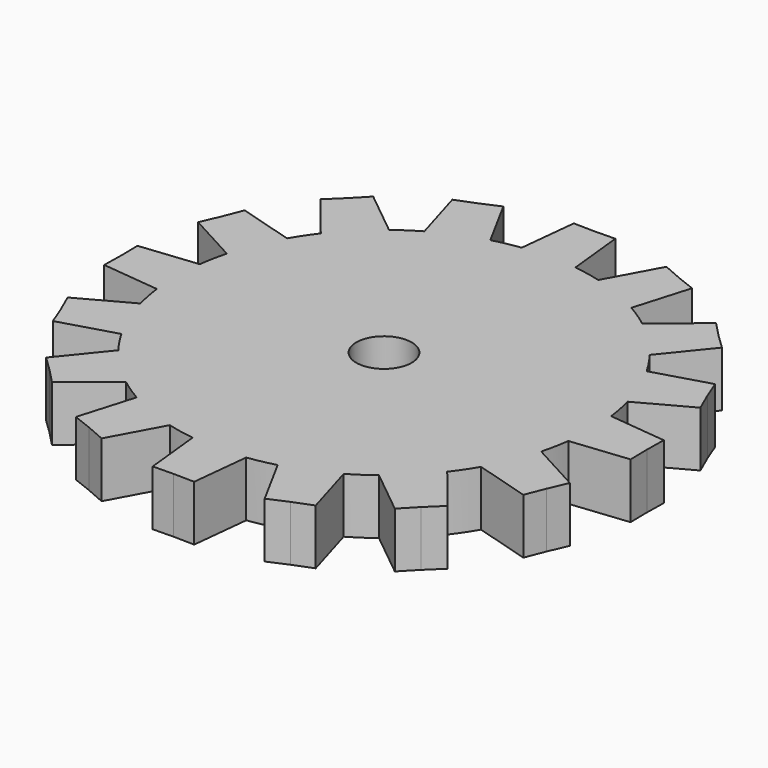
from build123d import *

# Parameters (mm, degrees)
F1_DEPTH = 2
F2_R     = 1
F3_DEPTH = 2.001


with BuildPart() as f1:
    # F0 (on Top) → F1 (new body)
    with BuildSketch(Plane.XY):
        with BuildLine():
            ThreePointArc((7.437103, -0.969279), (7.484259, -0.485659), (7.5, 0))
            ThreePointArc((7.5, 0), (7.484259, 0.485659), (7.437103, 0.969279))
            ThreePointArc((7.437103, 0.969279), (7.35589, 1.463177), (7.241914, 1.950559))
            ThreePointArc((7.241914, 1.950559), (6.929096, 2.870126), (6.50006, 3.741553))
            ThreePointArc((6.50006, 3.741553), (6.236022, 4.166777), (5.94421, 4.573442))
            ThreePointArc((5.94421, 4.573442), (5.303301, 5.303301), (4.573442, 5.94421))
            ThreePointArc((4.573442, 5.94421), (4.166777, 6.236022), (3.741553, 6.50006))
            ThreePointArc((3.741553, 6.50006), (2.870126, 6.929096), (1.950559, 7.241914))
            ThreePointArc((1.950559, 7.241914), (1.463177, 7.35589), (0.969279, 7.437103))
            ThreePointArc((0.969279, 7.437103), (0, 7.5), (-0.969279, 7.437103))
            ThreePointArc((-0.969279, 7.437103), (-1.463177, 7.35589), (-1.950559, 7.241914))
            ThreePointArc((-1.950559, 7.241914), (-2.870126, 6.929096), (-3.741553, 6.50006))
            ThreePointArc((-3.741553, 6.50006), (-4.166777, 6.236022), (-4.573442, 5.94421))
            ThreePointArc((-4.573442, 5.94421), (-5.303301, 5.303301), (-5.94421, 4.573442))
            ThreePointArc((-5.94421, 4.573442), (-6.236022, 4.166777), (-6.50006, 3.741553))
            ThreePointArc((-6.50006, 3.741553), (-6.929096, 2.870126), (-7.241914, 1.950559))
            ThreePointArc((-7.241914, 1.950559), (-7.35589, 1.463177), (-7.437103, 0.969279))
            ThreePointArc((-7.437103, 0.969279), (-7.5, 0), (-7.437103, -0.969279))
            ThreePointArc((-7.437103, -0.969279), (-7.35589, -1.463177), (-7.241914, -1.950559))
            ThreePointArc((-7.241914, -1.950559), (-6.929096, -2.870126), (-6.50006, -3.741553))
            ThreePointArc((-6.50006, -3.741553), (-6.236022, -4.166777), (-5.94421, -4.573442))
            ThreePointArc((-5.94421, -4.573442), (-5.303301, -5.303301), (-4.573442, -5.94421))
            ThreePointArc((-4.573442, -5.94421), (-4.166777, -6.236022), (-3.741553, -6.50006))
            ThreePointArc((-3.741553, -6.50006), (-2.870126, -6.929096), (-1.950559, -7.241914))
            ThreePointArc((-1.950559, -7.241914), (-1.463177, -7.35589), (-0.969279, -7.437103))
            ThreePointArc((-0.969279, -7.437103), (0, -7.5), (0.969279, -7.437103))
            ThreePointArc((0.969279, -7.437103), (1.463177, -7.35589), (1.950559, -7.241914))
            ThreePointArc((1.950559, -7.241914), (2.870126, -6.929096), (3.741553, -6.50006))
            ThreePointArc((3.741553, -6.50006), (4.166777, -6.236022), (4.573442, -5.94421))
            ThreePointArc((4.573442, -5.94421), (5.303301, -5.303301), (5.94421, -4.573442))
            ThreePointArc((5.94421, -4.573442), (6.236022, -4.166777), (6.50006, -3.741553))
            ThreePointArc((6.50006, -3.741553), (6.929096, -2.870126), (7.241914, -1.950559))
            ThreePointArc((7.241914, -1.950559), (7.35589, -1.463177), (7.437103, -0.969279))
        make_face()
        with BuildLine():
            ThreePointArc((7.437103, 0.969279), (7.484259, 0.485659), (7.5, 0))
            ThreePointArc((7.5, 0), (7.484259, -0.485659), (7.437103, -0.969279))
            Line((7.437103, -0.969279), (9.513775, -0.75))
            Line((9.513775, -0.75), (9.500322, 0))
            Line((9.500322, 0), (9.513775, 0.75))
            Line((9.513775, 0.75), (7.437103, 0.969279))
        make_face()
        with BuildLine():
            ThreePointArc((6.50006, 3.741553), (6.929096, 2.870126), (7.241914, 1.950559))
            Line((7.241914, 1.950559), (9.076594, 2.947854))
            Line((9.076594, 2.947854), (8.777153, 3.635616))
            Line((8.777153, 3.635616), (8.502569, 4.333674))
            Line((8.502569, 4.333674), (6.50006, 3.741553))
        make_face()
        with BuildLine():
            Line((9.076594, -2.947854), (7.241914, -1.950559))
            ThreePointArc((7.241914, -1.950559), (6.929096, -2.870126), (6.50006, -3.741553))
            Line((6.50006, -3.741553), (8.502569, -4.333674))
            Line((8.502569, -4.333674), (8.777153, -3.635616))
            Line((8.777153, -3.635616), (9.076594, -2.947854))
        make_face()
        with BuildLine():
            ThreePointArc((4.573442, 5.94421), (5.303301, 5.303301), (5.94421, 4.573442))
            Line((5.94421, 4.573442), (7.257585, 6.196924))
            Line((7.257585, 6.196924), (6.717742, 6.717742))
            Line((6.717742, 6.717742), (6.196924, 7.257585))
            Line((6.196924, 7.257585), (4.573442, 5.94421))
        make_face()
        with BuildLine():
            Line((7.257585, -6.196924), (5.94421, -4.573442))
            ThreePointArc((5.94421, -4.573442), (5.303301, -5.303301), (4.573442, -5.94421))
            Line((4.573442, -5.94421), (6.196924, -7.257585))
            Line((6.196924, -7.257585), (6.717742, -6.717742))
            Line((6.717742, -6.717742), (7.257585, -6.196924))
        make_face()
        with BuildLine():
            ThreePointArc((1.950559, 7.241914), (2.870126, 6.929096), (3.741553, 6.50006))
            Line((3.741553, 6.50006), (4.333674, 8.502569))
            Line((4.333674, 8.502569), (3.635616, 8.777153))
            Line((3.635616, 8.777153), (2.947854, 9.076594))
            Line((2.947854, 9.076594), (1.950559, 7.241914))
        make_face()
        with BuildLine():
            Line((4.333674, -8.502569), (3.741553, -6.50006))
            ThreePointArc((3.741553, -6.50006), (2.870126, -6.929096), (1.950559, -7.241914))
            Line((1.950559, -7.241914), (2.947854, -9.076594))
            Line((2.947854, -9.076594), (3.635616, -8.777153))
            Line((3.635616, -8.777153), (4.333674, -8.502569))
        make_face()
        with BuildLine():
            ThreePointArc((-0.969279, 7.437103), (0, 7.5), (0.969279, 7.437103))
            Line((0.969279, 7.437103), (0.75, 9.513775))
            Line((0.75, 9.513775), (0, 9.500322))
            Line((0, 9.500322), (-0.75, 9.513775))
            Line((-0.75, 9.513775), (-0.969279, 7.437103))
        make_face()
        with BuildLine():
            Line((0.75, -9.513775), (0.969279, -7.437103))
            ThreePointArc((0.969279, -7.437103), (0, -7.5), (-0.969279, -7.437103))
            Line((-0.969279, -7.437103), (-0.75, -9.513775))
            Line((-0.75, -9.513775), (0, -9.500322))
            Line((0, -9.500322), (0.75, -9.513775))
        make_face()
        with BuildLine():
            ThreePointArc((-3.741553, 6.50006), (-2.870126, 6.929096), (-1.950559, 7.241914))
            Line((-1.950559, 7.241914), (-2.947854, 9.076594))
            Line((-2.947854, 9.076594), (-3.635616, 8.777153))
            Line((-3.635616, 8.777153), (-4.333674, 8.502569))
            Line((-4.333674, 8.502569), (-3.741553, 6.50006))
        make_face()
        with BuildLine():
            Line((-2.947854, -9.076594), (-1.950559, -7.241914))
            ThreePointArc((-1.950559, -7.241914), (-2.870126, -6.929096), (-3.741553, -6.50006))
            Line((-3.741553, -6.50006), (-4.333674, -8.502569))
            Line((-4.333674, -8.502569), (-3.635616, -8.777153))
            Line((-3.635616, -8.777153), (-2.947854, -9.076594))
        make_face()
        with BuildLine():
            ThreePointArc((-5.94421, 4.573442), (-5.303301, 5.303301), (-4.573442, 5.94421))
            Line((-4.573442, 5.94421), (-6.196924, 7.257585))
            Line((-6.196924, 7.257585), (-6.717742, 6.717742))
            Line((-6.717742, 6.717742), (-7.257585, 6.196924))
            Line((-7.257585, 6.196924), (-5.94421, 4.573442))
        make_face()
        with BuildLine():
            Line((-6.196924, -7.257585), (-4.573442, -5.94421))
            ThreePointArc((-4.573442, -5.94421), (-5.303301, -5.303301), (-5.94421, -4.573442))
            Line((-5.94421, -4.573442), (-7.257585, -6.196924))
            Line((-7.257585, -6.196924), (-6.717742, -6.717742))
            Line((-6.717742, -6.717742), (-6.196924, -7.257585))
        make_face()
        with BuildLine():
            ThreePointArc((-7.241914, 1.950559), (-6.929096, 2.870126), (-6.50006, 3.741553))
            Line((-6.50006, 3.741553), (-8.502569, 4.333674))
            Line((-8.502569, 4.333674), (-8.777153, 3.635616))
            Line((-8.777153, 3.635616), (-9.076594, 2.947854))
            Line((-9.076594, 2.947854), (-7.241914, 1.950559))
        make_face()
        with BuildLine():
            Line((-8.502569, -4.333674), (-6.50006, -3.741553))
            ThreePointArc((-6.50006, -3.741553), (-6.929096, -2.870126), (-7.241914, -1.950559))
            Line((-7.241914, -1.950559), (-9.076594, -2.947854))
            Line((-9.076594, -2.947854), (-8.777153, -3.635616))
            Line((-8.777153, -3.635616), (-8.502569, -4.333674))
        make_face()
        with BuildLine():
            ThreePointArc((-7.437103, -0.969279), (-7.5, 0), (-7.437103, 0.969279))
            Line((-7.437103, 0.969279), (-9.513775, 0.75))
            Line((-9.513775, 0.75), (-9.500322, 0))
            Line((-9.500322, 0), (-9.513775, -0.75))
            Line((-9.513775, -0.75), (-7.437103, -0.969279))
        make_face()
    extrude(amount=F1_DEPTH)

    # F2 (on face) → F3 (cut, through all)
    with BuildSketch(Plane.XY.offset(2)):
        Circle(F2_R)
    extrude(amount=-F3_DEPTH, mode=Mode.SUBTRACT)


solid = f1.part
